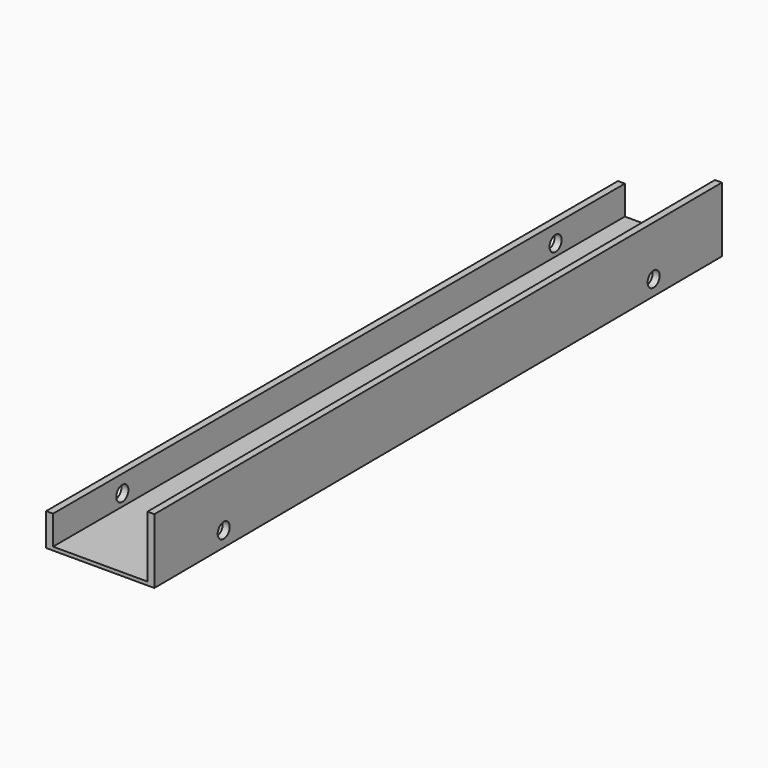
from build123d import *

# Parameters (mm, degrees)
SKETCH002_R         = 1.75
POCKET_DEPTH        = 25.000541
POCKET_DEPTH_BACK   = 1.000982
LINEARPATTERN_COUNT = 2
LINEARPATTERN_PITCH = 125


with BuildPart() as part:
    # Sketch → AdditiveLoft section 0
    with BuildSketch(Plane.XZ):
        Polygon((0, 0), (24, 0), (24, 15), (22.4, 15), (22.4, 0.8), (1.6, 0.8), (1.6, 7.5), (0, 7.5), align=None)
    # Sketch001 (on DatumPlane) → AdditiveLoft section 1
    with BuildSketch(Plane.XZ.offset(165)):
        Polygon((0, 0), (0, 7.5), (1.6, 7.5), (1.6, 0.8), (23.4, 0.8), (23.4, 15), (25, 15), (25, 0), align=None)
    loft()

    # Sketch002 (on Face4 of AdditiveLoft) → Pocket (cut, two sides)
    with BuildSketch(Plane(origin=(23.999118, 0.145449, 0), x_dir=(0, 0, 1), z_dir=(0.999982, 0.00606, 0))) as pocket_sk:
        with Locations((3.5, 20)):
            Circle(SKETCH002_R)
    pocket = extrude(amount=-POCKET_DEPTH, mode=Mode.SUBTRACT) + extrude(pocket_sk.sketch, amount=POCKET_DEPTH_BACK, mode=Mode.SUBTRACT)

    # LinearPattern: Pocket ×2
    with Locations(*[(0, -i * LINEARPATTERN_PITCH, 0) for i in range(1, LINEARPATTERN_COUNT)]):
        add(pocket, mode=Mode.SUBTRACT)


solid = part.part
